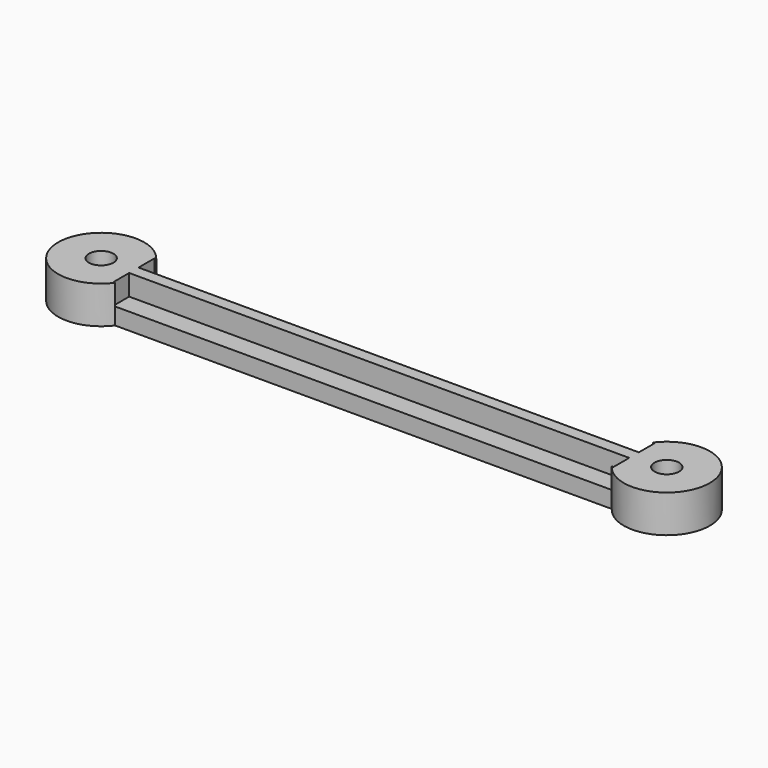
from build123d import *

# Parameters (mm, degrees)
F1_DEPTH = 2.28
F0_R     = 1.665
F2_DEPTH = 5.11


with BuildPart() as f1:
    # F0 (on Top) → F1 (new body)
    with BuildSketch(Plane.XY):
        Polygon((1.739648, 0), (1.492164, 0), (1.492164, -2.7), (69.492164, -2.7), (69.492164, 0), (69.244681, 0), align=None)
        Polygon((1.492164, -7), (1.739648, -7), (69.244681, -7), (69.492164, -7), (69.492164, -4.33663), (1.492164, -4.3), align=None)
    extrude(amount=F1_DEPTH)


with BuildPart() as f2:
    # F0 (on Top) → F2 (new body)
    with BuildSketch(Plane.XY):
        with BuildLine():
            Line((1.492164, -2.7), (1.492164, 0))
            Line((1.492164, 0), (1.739648, 0))
            ThreePointArc((1.739648, 0), (-8.797836, -3.5), (1.739648, -7))
            Line((1.739648, -7), (1.492164, -7))
            Line((1.492164, -7), (1.492164, -4.3))
            Line((1.492164, -4.3), (1.492164, -2.7))
        make_face()
        with Locations((-2.947836, -3.5)):
            Circle(F0_R, mode=Mode.SUBTRACT)
        Polygon((69.492164, -2.7), (1.492164, -2.7), (1.492164, -4.3), (69.492164, -4.33663), align=None)
        with BuildLine():
            ThreePointArc((69.244681, -7), (79.782164, -3.5), (69.244681, 0))
            Line((69.244681, 0), (69.492164, 0))
            Line((69.492164, 0), (69.492164, -2.7))
            Line((69.492164, -2.7), (69.492164, -4.33663))
            Line((69.492164, -4.33663), (69.492164, -7))
            Line((69.492164, -7), (69.244681, -7))
        make_face()
        with Locations((73.932164, -3.5)):
            Circle(F0_R, mode=Mode.SUBTRACT)
    extrude(amount=F2_DEPTH)


solid = Compound([f1.part, f2.part])
